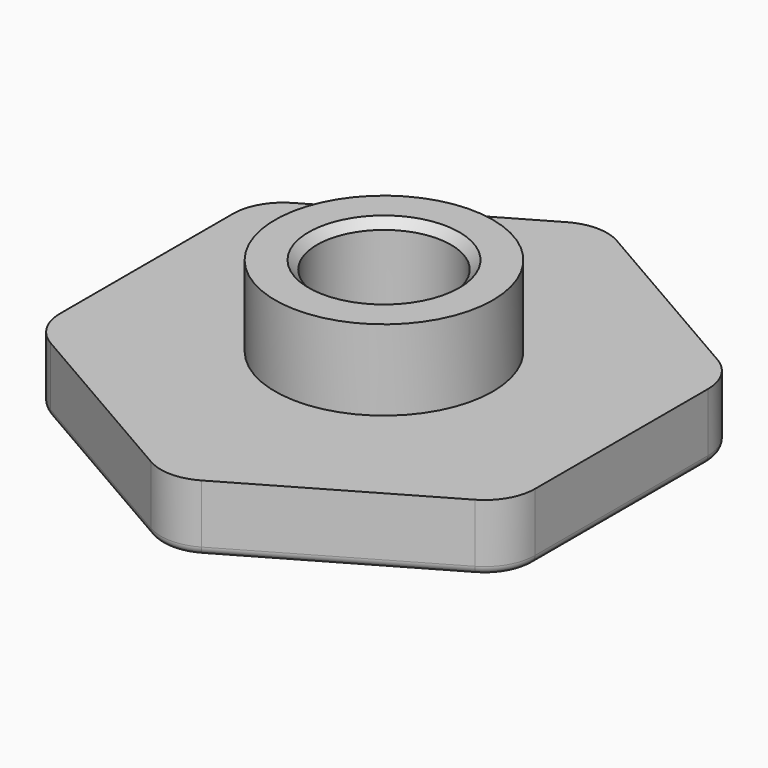
from build123d import *

# Parameters (mm, degrees)
SKETCH_R      = 4
PAD_DEPTH     = 4
SKETCH001_R   = 6.5
SKETCH001_R_2 = 4
PAD001_DEPTH  = 4.8
CHAMFER_SIZE  = 0.5
FILLET_R      = 3
FILLET001_R   = 0.5


with BuildPart() as part:
    # Sketch → Pad (new body)
    with BuildSketch(Plane.XY):
        Polygon((0, 16.36788), (-14.175, 8.18394), (-14.175, -8.18394), (0, -16.36788), (14.175, -8.18394), (14.175, 8.18394), align=None)
        Circle(SKETCH_R, mode=Mode.SUBTRACT)
    extrude(amount=PAD_DEPTH)

    # Sketch001 (on Face9 of Pad) → Pad001 (join)
    with BuildSketch(Plane.XY.offset(4)):
        Circle(SKETCH001_R)
        Circle(SKETCH001_R_2, mode=Mode.SUBTRACT)
    extrude(amount=PAD001_DEPTH)

    # Chamfer
    chamfer_edges = [part.edges().sort_by_distance(p)[0] for p in [
        (-4, 0, 8.8),
    ]]
    chamfer(chamfer_edges, length=CHAMFER_SIZE)

    # Fillet
    fillet_edges = [part.edges().sort_by_distance(p)[0] for p in [
        (0, -16.36788, 2),
        (14.175, -8.18394, 2),
        (14.175, 8.18394, 2),
        (-14.175, -8.18394, 2),
        (-14.175, 8.18394, 2),
        (0, 16.36788, 2),
    ]]
    fillet(fillet_edges, radius=FILLET_R)

    # Fillet001
    fillet001_edges = [part.edges().sort_by_distance(p)[0] for p in [
        (13.773076, -7.951889, 0),
        (7.0875, -12.27591, 0),
        (-7.0875, -12.27591, 0),
        (-13.773076, -7.951889, 0),
        (-14.175, 0, 0),
        (-13.773076, 7.951889, 0),
        (-7.0875, 12.27591, 0),
        (0, 15.903779, 0),
        (7.0875, 12.27591, 0),
        (13.773076, 7.951889, 0),
        (14.175, 0, 0),
        (0, -15.903779, 0),
    ]]
    fillet(fillet001_edges, radius=FILLET001_R)


solid = part.part
